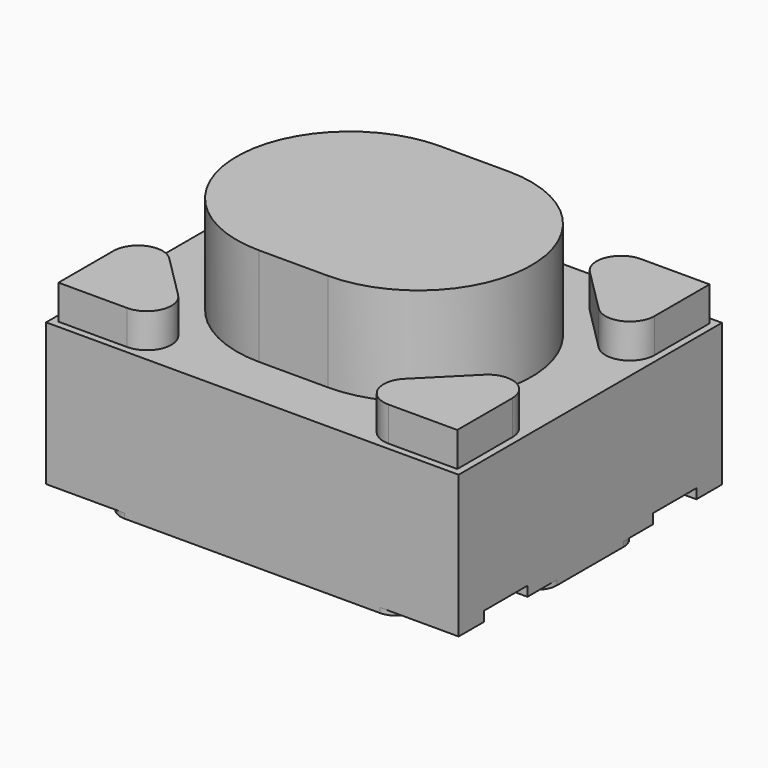
from build123d import *

# Parameters (mm, degrees)
SKETCH_W                   = 4.2
SKETCH_H                   = 3.35
PAD_DEPTH                  = 1.45
PAD001_DEPTH               = 0.35
PAD001_MIRRORED_2_DEPTH    = 0.35
PAD002_DEPTH               = 1
SKETCH004_W                = 0.5
SKETCH004_H                = 0.55
POCKET_DEPTH               = 0.1
SKETCH004_MIRRORED002_2_W  = 0.5
SKETCH004_MIRRORED002_2_H  = 0.55
POCKET_MIRRORED002_2_DEPTH = 0.1
PAD004_DEPTH               = 0.05


with BuildPart() as part:
    # Sketch → Pad (new body)
    with BuildSketch(Plane.XY):
        Rectangle(SKETCH_W, SKETCH_H)
    extrude(amount=PAD_DEPTH)

    # Sketch001 (on Face6 of Pad) → Pad001 (join)
    with BuildSketch(Plane.XY.offset(1.45)):
        with BuildLine():
            Line((-2.03, 1.605), (-1.33, 1.605))
            ThreePointArc((-1.153223, 1.178223), (-1.09903, 1.450671), (-1.33, 1.605))
            Line((-1.153223, 1.178223), (-1.603223, 0.728223))
            ThreePointArc((-2.03, 0.905), (-1.875671, 0.67403), (-1.603223, 0.728223))
            Line((-2.03, 1.605), (-2.03, 0.905))
        make_face()
    pad001 = extrude(amount=PAD001_DEPTH)

    # Sketch001 Mirrored 2 → Pad001 Mirrored 2 (add)
    with BuildSketch(Plane(origin=(0, 0, 1.45), x_dir=(-1, 0, 0), z_dir=(0, 0, -1))):
        with BuildLine():
            Line((-2.03, 1.605), (-1.33, 1.605))
            ThreePointArc((-1.153223, 1.178223), (-1.09903, 1.450671), (-1.33, 1.605))
            Line((-1.153223, 1.178223), (-1.603223, 0.728223))
            ThreePointArc((-2.03, 0.905), (-1.875671, 0.67403), (-1.603223, 0.728223))
            Line((-2.03, 1.605), (-2.03, 0.905))
        make_face()
    pad001_mirrored_2 = extrude(amount=-PAD001_MIRRORED_2_DEPTH)

    # Mirrored001: Pad001, Pad001 Mirrored 2 across Sketch001 H_Axis
    add(pad001.mirror(Plane(origin=(0, 0, 1.45), x_dir=(0, 0, 1), z_dir=(0, 1, 0))))
    add(pad001_mirrored_2.mirror(Plane(origin=(0, 0, 1.45), x_dir=(0, 0, 1), z_dir=(0, 1, 0))))

    # Sketch002 (on Face5 of MultiTransform) → Pad002 (join)
    with BuildSketch(Plane.XY.offset(1.45)):
        with BuildLine():
            ThreePointArc((-0.35, 1.15), (-1.5, 0), (-0.35, -1.15))
            Line((-0.35, -1.15), (0.35, -1.15))
            ThreePointArc((0.35, -1.15), (1.5, 0), (0.35, 1.15))
            Line((-0.35, 1.15), (0.35, 1.15))
        make_face()
    extrude(amount=PAD002_DEPTH)

    # Sketch004 (on Face4 of Pad002) → Pocket (cut)
    with BuildSketch(Plane(origin=(0, 0, 0), x_dir=(1, 0, 0), z_dir=(0, 0, -1))):
        with Locations((-1.85, 1.075)):
            Rectangle(SKETCH004_W, SKETCH004_H)
    pocket = extrude(amount=-POCKET_DEPTH, mode=Mode.SUBTRACT)

    # Sketch004 Mirrored002 2 → Pocket Mirrored002 2 (cut)
    with BuildSketch(Plane(origin=(0, 0, 0), x_dir=(-1, 0, 0), z_dir=(0, 0, 1))):
        with Locations((-1.85, 1.075)):
            Rectangle(SKETCH004_MIRRORED002_2_W, SKETCH004_MIRRORED002_2_H)
    pocket_mirrored002_2 = extrude(amount=POCKET_MIRRORED002_2_DEPTH, mode=Mode.SUBTRACT)

    # Mirrored003: Pocket, Pocket Mirrored002 2 across Sketch004 H_Axis
    add(pocket.mirror(Plane(origin=(0, 0, 0), x_dir=(0, 0, -1), z_dir=(0, -1, 0))), mode=Mode.SUBTRACT)
    add(pocket_mirrored002_2.mirror(Plane(origin=(0, 0, 0), x_dir=(0, 0, -1), z_dir=(0, -1, 0))), mode=Mode.SUBTRACT)

    # Sketch005 (on Face4 of MultiTransform001) → Pad004 (join)
    with BuildSketch(Plane(origin=(0, 0, 0), x_dir=(1, 0, 0), z_dir=(0, 0, -1))):
        with BuildLine():
            ThreePointArc((-1.9, 0.625), (-2.041421, 0.566421), (-2.1, 0.425))
            Line((-2.1, 0.425), (-2.1, -0.425))
            ThreePointArc((-2.1, -0.425), (-2.041421, -0.566421), (-1.9, -0.625))
            Line((-1.9, -0.625), (-1.7, -0.625))
            ThreePointArc((-1.5, -0.825), (-1.558579, -0.683579), (-1.7, -0.625))
            Line((-1.5, -0.825), (-1.5, -1.475))
            ThreePointArc((-1.5, -1.475), (-1.441421, -1.616421), (-1.3, -1.675))
            Line((-1.3, -1.675), (1.3, -1.675))
            ThreePointArc((1.3, -1.675), (1.441421, -1.616421), (1.5, -1.475))
            Line((1.5, -0.825), (1.5, -1.475))
            ThreePointArc((1.7, -0.625), (1.558579, -0.683579), (1.5, -0.825))
            Line((1.9, -0.625), (1.7, -0.625))
            ThreePointArc((1.9, -0.625), (2.041421, -0.566421), (2.1, -0.425))
            Line((2.1, 0.425), (2.1, -0.425))
            ThreePointArc((2.1, 0.425), (2.041421, 0.566421), (1.9, 0.625))
            Line((1.9, 0.625), (1.7, 0.625))
            ThreePointArc((1.5, 0.825), (1.558579, 0.683579), (1.7, 0.625))
            Line((1.5, 0.825), (1.5, 1.475))
            ThreePointArc((1.5, 1.475), (1.441421, 1.616421), (1.3, 1.675))
            Line((-1.3, 1.675), (1.3, 1.675))
            ThreePointArc((-1.3, 1.675), (-1.441421, 1.616421), (-1.5, 1.475))
            Line((-1.5, 0.825), (-1.5, 1.475))
            ThreePointArc((-1.7, 0.625), (-1.558579, 0.683579), (-1.5, 0.825))
            Line((-1.9, 0.625), (-1.7, 0.625))
        make_face()
    extrude(amount=PAD004_DEPTH)


with BuildPart() as part_1:
    # Body placement: moved
    add(part.part.moved(Location((0, 0, 0.05))))


solid = part_1.part
